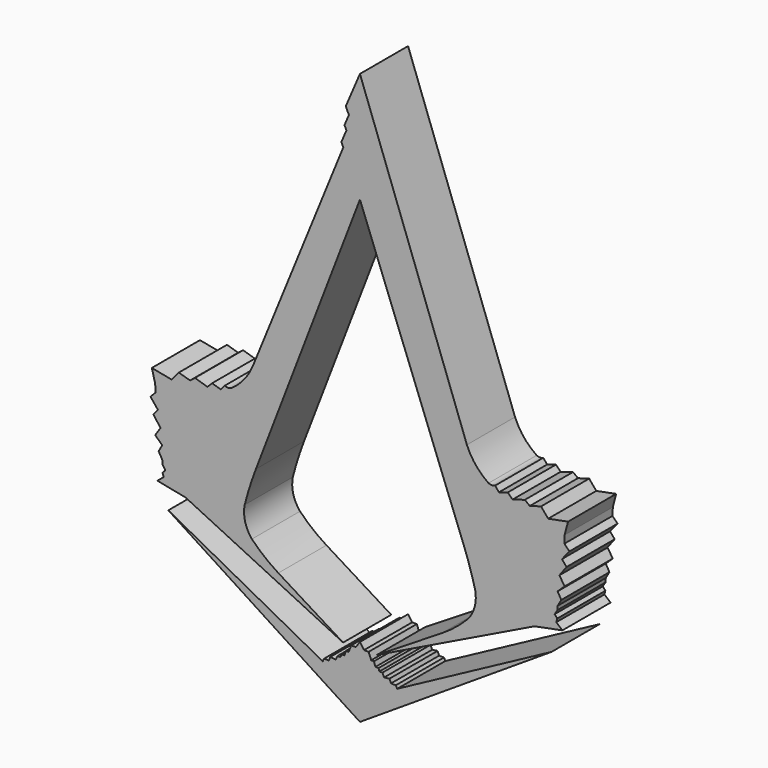
from build123d import *

# Parameters (mm, degrees)
F1_DEPTH = 10


with BuildPart() as f1:
    # F0 (on Front) → F1 (new body)
    with BuildSketch(Plane.XZ):
        with BuildLine():
            Line((-20.023162, 49.490344), (-37.802389, 97.984103))
            Line((-37.802389, 97.984103), (-40.162235, 92.471808))
            Line((-40.162235, 92.471808), (-39.638641, 91.367855))
            Line((-39.638641, 91.367855), (-40.36975, 89.660078))
            Line((-40.36975, 89.660078), (-40.048006, 88.981708))
            Line((-40.048006, 88.981708), (-40.889924, 87.015097))
            Line((-40.889924, 87.015097), (-40.568179, 86.336727))
            Line((-40.568179, 86.336727), (-55.581615, 49.490344))
            ThreePointArc((-55.581615, 49.490344), (-57.051152, 47.004917), (-59.178055, 45.052186))
            ThreePointArc((-59.178055, 45.052186), (-59.724961, 44.924177), (-60.271867, 45.052186))
            Line((-60.271867, 45.052186), (-60.912725, 44.282753))
            Line((-60.912725, 44.282753), (-62.371388, 44.73231))
            Line((-62.371388, 44.73231), (-63.157685, 43.942872))
            Line((-63.157685, 43.942872), (-65.222082, 44.579115))
            Line((-65.222082, 44.579115), (-66.034637, 43.942872))
            Line((-66.034637, 43.942872), (-67.906208, 44.49058))
            Line((-67.906208, 44.49058), (-69.08562, 43.074805))
            Line((-69.08562, 43.074805), (-72.389983, 43.711789))
            Line((-72.389983, 43.711789), (-71.83262, 41.596085))
            Line((-71.83262, 41.596085), (-71.781434, 40.293675))
            Line((-71.781434, 40.293675), (-72.617479, 39.43488))
            Line((-72.617479, 39.43488), (-71.38332, 37.910666))
            Line((-71.38332, 37.910666), (-72.134055, 36.994997))
            Line((-72.134055, 36.994997), (-70.945397, 35.391156))
            Line((-70.945397, 35.391156), (-71.83262, 34.071684))
            Line((-71.83262, 34.071684), (-70.661329, 32.960273))
            Line((-70.661329, 32.960273), (-71.262464, 31.892184))
            Line((-71.262464, 31.892184), (-70.661329, 30.842416))
            Line((-70.661329, 30.842416), (-70.627424, 30.190499))
            Line((-70.627424, 30.190499), (-70.158075, 29.452435))
            Line((-70.158075, 29.452435), (-70.591594, 28.954421))
            Line((-70.591594, 28.954421), (-70.435083, 28.36032))
            Line((-70.435083, 28.36032), (-71.462224, 27.506962))
            Line((-71.462224, 27.506962), (-66.771212, 26.575134))
            Line((-66.771212, 26.575134), (-40.597859, 13.866938))
            Line((-40.597859, 13.866938), (-51.364633, 20.542177))
            ThreePointArc((-51.364633, 20.542177), (-53.670059, 22.174499), (-55.759269, 24.075725))
            ThreePointArc((-55.759269, 24.075725), (-56.885933, 26.250187), (-56.955031, 28.698224))
            ThreePointArc((-56.955031, 28.698224), (-56.108077, 31.645961), (-55.092435, 34.539913))
            Line((-55.092435, 34.539913), (-37.802389, 79.59909))
            Line((-37.802389, 79.59909), (-20.512342, 34.539913))
            ThreePointArc((-20.512342, 34.539913), (-19.4967, 31.645961), (-18.649746, 28.698224))
            ThreePointArc((-18.649746, 28.698224), (-18.718844, 26.250187), (-19.845508, 24.075725))
            ThreePointArc((-19.845508, 24.075725), (-21.934718, 22.174499), (-24.240144, 20.542177))
            Line((-24.240144, 20.542177), (-35.006918, 13.866938))
            Line((-35.006918, 13.866938), (-8.833565, 26.575134))
            Line((-8.833565, 26.575134), (-4.142553, 27.506962))
            Line((-4.142553, 27.506962), (-5.169694, 28.36032))
            Line((-5.169694, 28.36032), (-5.013183, 28.954421))
            Line((-5.013183, 28.954421), (-5.446703, 29.452435))
            Line((-5.446703, 29.452435), (-4.977353, 30.190499))
            Line((-4.977353, 30.190499), (-4.943448, 30.842416))
            Line((-4.943448, 30.842416), (-4.342313, 31.892184))
            Line((-4.342313, 31.892184), (-4.943448, 32.960273))
            Line((-4.943448, 32.960273), (-3.772157, 34.071684))
            Line((-3.772157, 34.071684), (-4.65938, 35.391156))
            Line((-4.65938, 35.391156), (-3.470722, 36.994997))
            Line((-3.470722, 36.994997), (-4.221457, 37.910666))
            Line((-4.221457, 37.910666), (-2.987298, 39.43488))
            Line((-2.987298, 39.43488), (-3.823343, 40.293675))
            Line((-3.823343, 40.293675), (-3.772157, 41.596085))
            Line((-3.772157, 41.596085), (-3.214794, 43.711789))
            Line((-3.214794, 43.711789), (-6.519157, 43.074805))
            Line((-6.519157, 43.074805), (-7.698569, 44.49058))
            Line((-7.698569, 44.49058), (-9.57014, 43.942872))
            Line((-9.57014, 43.942872), (-10.382695, 44.579115))
            Line((-10.382695, 44.579115), (-12.447092, 43.942872))
            Line((-12.447092, 43.942872), (-13.233389, 44.73231))
            Line((-13.233389, 44.73231), (-14.692053, 44.282753))
            Line((-14.692053, 44.282753), (-15.33291, 45.052186))
            ThreePointArc((-15.33291, 45.052186), (-15.879816, 44.924177), (-16.426722, 45.052186))
            ThreePointArc((-16.426722, 45.052186), (-18.553625, 47.004917), (-20.023162, 49.490344))
        make_face()
        Polygon((-43.98706, 10.019898), (-69.651601, 23.76935), (-37.802389, 3.164015), (-5.953176, 23.76935), (-31.617717, 10.019898), (-31.8305, 10.47263), (-32.64464, 10.47263), (-32.892051, 11.087263), (-33.789008, 10.971455), (-34.068619, 11.589255), (-34.571313, 11.589255), (-34.711081, 12.048906), (-35.227652, 12.048906), (-35.467327, 12.796801), (-35.921224, 12.796801), (-36.356118, 13.891008), (-37.126948, 13.891008), (-37.802389, 14.863268), (-38.47783, 13.891008), (-39.248659, 13.891008), (-39.683553, 12.796801), (-40.13745, 12.796801), (-40.377125, 12.048906), (-40.893696, 12.048906), (-41.033464, 11.589255), (-41.536158, 11.589255), (-41.815769, 10.971455), (-42.712726, 11.087263), (-42.960137, 10.47263), (-43.774277, 10.47263), align=None)
    extrude(amount=F1_DEPTH)


solid = f1.part
